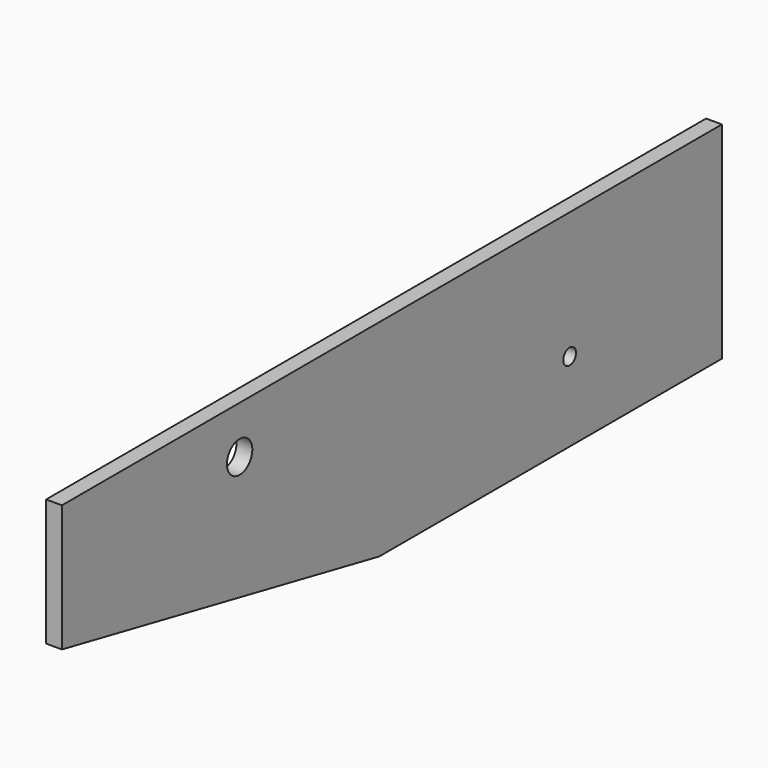
from build123d import *

# Parameters (mm, degrees)
F3_DEPTH = 1.5875
F1_R     = 1.5875
F1_R_2   = 3.175
F4_DEPTH = 12.7


with BuildPart() as f3:
    # F0 (on Right) → F3 (new body, symmetric)
    with BuildSketch(Plane.YZ):
        Polygon((57.15, 4.75869), (57.15, 46.04131), (-107.95, 46.04131), (-107.95, 20.64131), (-28.575, 4.75869), align=None)
    extrude(amount=F3_DEPTH, both=True)

    # F1 (on Right) → F4 (cut, symmetric)
    with BuildSketch(Plane.YZ):
        with Locations((19.05, 20.63369)):
            Circle(F1_R)
        with Locations((-63.5, 36.50869)):
            Circle(F1_R_2)
    extrude(amount=F4_DEPTH, both=True, mode=Mode.SUBTRACT)


solid = f3.part
